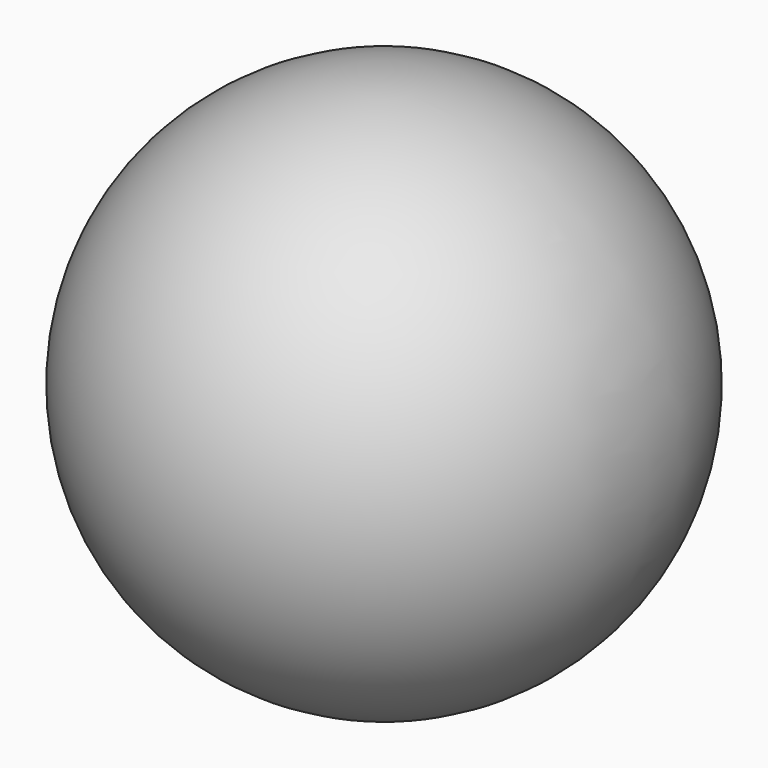
from build123d import *


with BuildPart() as f2:
    # F2: sweep along a path in F1
    with BuildLine(Plane.XY) as f2_path:
        CenterArc((0, 0), 11.125, 0, 360)
    # F0 (on Right) → F2 (sweep)
    with BuildSketch(Plane.YZ):
        with BuildLine():
            Line((0, -11.25), (0, 11.25))
            ThreePointArc((0, 11.25), (-11.25, 0), (0, -11.25))
        make_face()
    sweep(path=f2_path.line)


solid = f2.part
